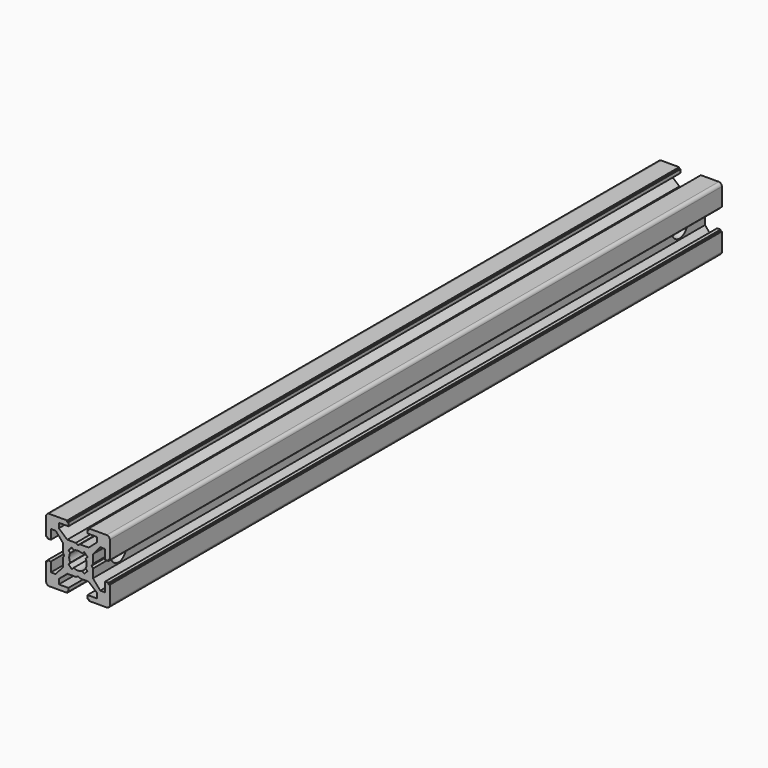
from build123d import *

# Parameters (mm, degrees)
PAD_DEPTH          = 240
POCKET_DEPTH       = 240
POLARPATTERN_COUNT = 4
POCKET001_DEPTH    = 240
SKETCH003_R        = 3
POCKET002_DEPTH    = 20
SKETCH004_R        = 5
POCKET003_DEPTH    = 3
POCKET004_DEPTH    = 3


with BuildPart() as pocket002:
    # Sketch → Pad (new body)
    with BuildSketch(Plane.XZ):
        with BuildLine():
            Line((-9, 10), (9, 10))
            ThreePointArc((10, 9), (9.707107, 9.707107), (9, 10))
            Line((10, 9), (10, -9))
            ThreePointArc((9, -10), (9.707107, -9.707107), (10, -9))
            Line((9, -10), (-9, -10))
            ThreePointArc((-10, -9), (-9.707107, -9.707107), (-9, -10))
            Line((-10, -9), (-10, 9))
            ThreePointArc((-9, 10), (-9.707107, 9.707107), (-10, 9))
        make_face()
    extrude(amount=PAD_DEPTH)

    # Sketch001 (on Face10 of Pad) → Pocket (cut)
    with BuildSketch(Plane.XZ.offset(240)):
        Polygon((-3.4, 10), (-3.4, 9.6), (-3, 9.6), (-3, 8.5), (-6, 8.5), (-6, 7), (-3.35, 4.7), (-0.65, 4.7), (0, 4.3), (0.65, 4.7), (3.35, 4.7), (6, 7), (6, 8.5), (3, 8.5), (3, 9.6), (3.4, 9.6), (3.4, 10), align=None)
    pocket = extrude(amount=-POCKET_DEPTH, mode=Mode.SUBTRACT)

    # PolarPattern: Pocket ×4 about axis
    polarpattern_axis = Axis((0, -240, 0), (0, -1, 0))
    for i in range(1, POLARPATTERN_COUNT):
        add(pocket.rotate(polarpattern_axis, i * 360 / POLARPATTERN_COUNT), mode=Mode.SUBTRACT)

    # Sketch002 (on Face4 of PolarPattern) → Pocket001 (cut)
    with BuildSketch(Plane.XZ.offset(240)):
        with BuildLine():
            ThreePointArc((1.340499, 2.401159), (0, 2.75), (-1.340499, 2.401159))
            Line((-1.944544, 3.005204), (-1.340499, 2.401159))
            Line((-3.005204, 1.944544), (-1.944544, 3.005204))
            Line((-2.401159, 1.340499), (-3.005204, 1.944544))
            ThreePointArc((-2.401159, 1.340499), (-2.75, 0), (-2.401159, -1.340499))
            Line((-3.005204, -1.944544), (-2.401159, -1.340499))
            Line((-1.944544, -3.005204), (-3.005204, -1.944544))
            Line((-1.340499, -2.401159), (-1.944544, -3.005204))
            ThreePointArc((-1.340499, -2.401159), (0, -2.75), (1.340499, -2.401159))
            Line((1.944544, -3.005204), (1.340499, -2.401159))
            Line((3.005204, -1.944544), (1.944544, -3.005204))
            Line((2.401159, -1.340499), (3.005204, -1.944544))
            ThreePointArc((2.401159, -1.340499), (2.75, 0), (2.401159, 1.340499))
            Line((2.401159, 1.340499), (3.005204, 1.944544))
            Line((3.005204, 1.944544), (1.944544, 3.005204))
            Line((1.944544, 3.005204), (1.340499, 2.401159))
        make_face()
    extrude(amount=-POCKET001_DEPTH, mode=Mode.SUBTRACT)

    # Sketch003 (on Face44 of Pocket001) → Pocket002 (cut)
    with BuildSketch(Plane(origin=(10, 0, 0), x_dir=(0, 0, 1), z_dir=(1, 0, 0))):
        with Locations((0, 10)):
            Circle(SKETCH003_R)
        with Locations((0, 230)):
            Circle(SKETCH003_R)
    extrude(amount=-POCKET002_DEPTH, mode=Mode.SUBTRACT)


with BuildPart() as pocket003:
    # Pocket003 base: copy of Pocket002
    add(pocket002.part)

    # Sketch004 (on Face37 of Pocket002) → Pocket003 (cut)
    with BuildSketch(Plane(origin=(-10, 0, 0), x_dir=(0, 0, -1), z_dir=(-1, 0, 0))):
        with Locations((0, 10)):
            Circle(SKETCH004_R)
        with Locations((0, 230)):
            Circle(SKETCH004_R)
    extrude(amount=-POCKET003_DEPTH, mode=Mode.SUBTRACT)


with BuildPart() as pocket004:
    # Pocket004 base: copy of Pocket002
    add(pocket002.part)

    # Sketch004 (on Face37 of Pocket002) → Pocket004 (cut)
    with BuildSketch(Plane(origin=(-10, 0, 0), x_dir=(0, 0, -1), z_dir=(-1, 0, 0))):
        with Locations((0, 10)):
            Circle(SKETCH004_R)
        with Locations((0, 230)):
            Circle(SKETCH004_R)
    extrude(amount=-POCKET004_DEPTH, mode=Mode.SUBTRACT)


solid = Compound([pocket003.part, pocket004.part])
